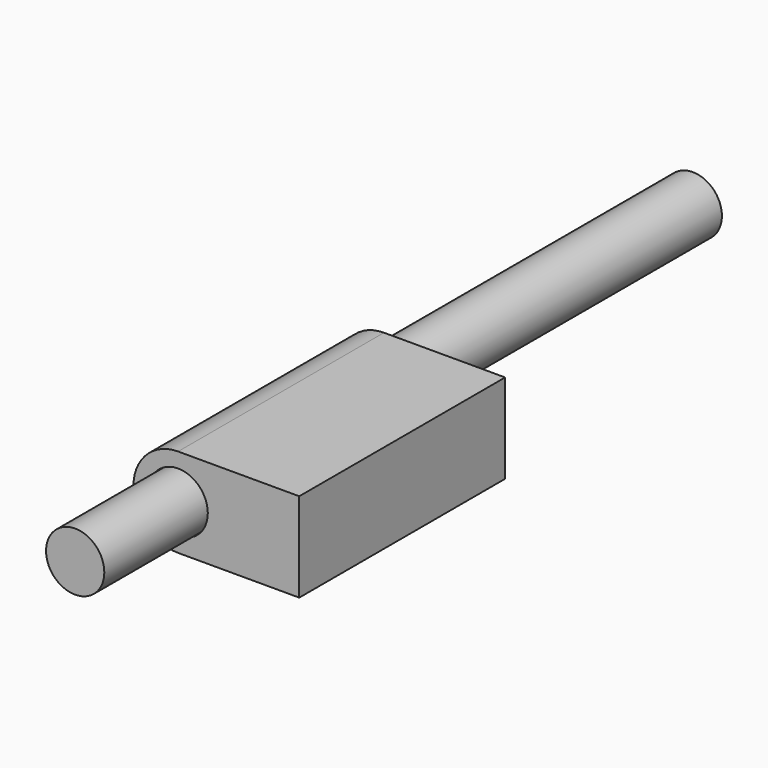
from build123d import *

# Parameters (mm, degrees)
F0_R      = 11.727639
F1_DEPTH  = 101.6
F2_R      = 11.505467
F3_DEPTH  = 50.8
F3_FACE_R = 11.505467
F4_DEPTH  = 254


with BuildPart() as f1:
    # F0 (on Front) → F1 (new body)
    with BuildSketch(Plane.XZ):
        with BuildLine():
            Line((47.829289, 17.622486), (0, 17.622486))
            ThreePointArc((0, 17.622486), (-17.622486, 0), (0, -17.622486))
            Line((0, -17.622486), (47.829289, -17.622486))
            Line((47.829289, -17.622486), (47.829289, 17.622486))
        make_face()
        Circle(F0_R, mode=Mode.SUBTRACT)
    extrude(amount=F1_DEPTH)


with BuildPart() as f3:
    # F2 (on face) → F3 (new body)
    with BuildSketch(Plane.XZ.offset(101.6)):
        Circle(F2_R)
    extrude(amount=F3_DEPTH)

    # F3_face (on face) → F4 (join)
    with BuildSketch(Plane(origin=(0, -101.6, 0), x_dir=(1, 0, 0), z_dir=(0, 1, 0))):
        Circle(F3_FACE_R)
    extrude(amount=F4_DEPTH)


solid = Compound([f1.part, f3.part])
